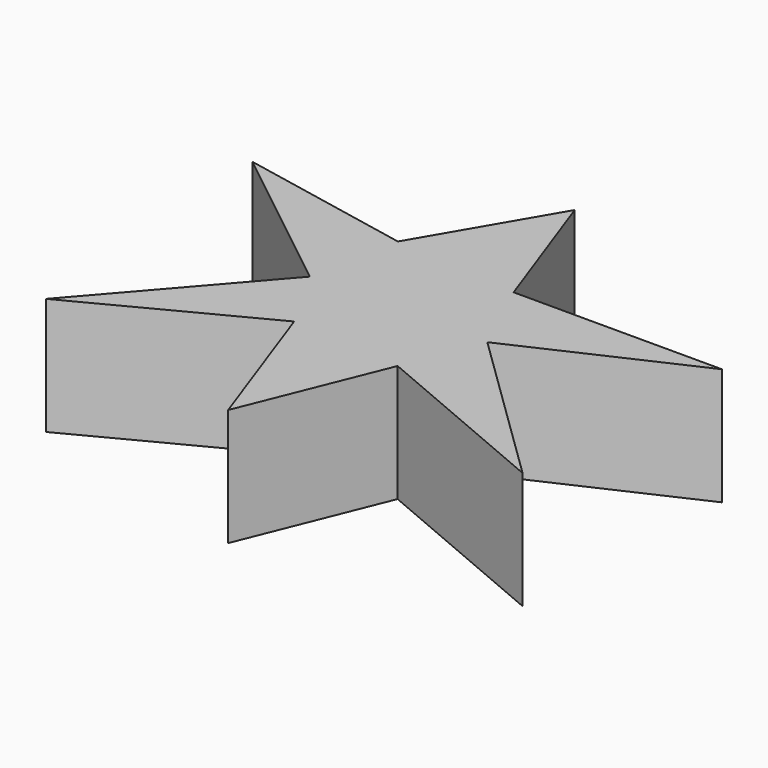
from build123d import *

# Parameters (mm, degrees)
PAD_DEPTH = 20


with BuildPart() as part:
    # Sketch → Pad (new body)
    with BuildSketch(Plane.XY):
        Polygon((0, 37.070709), (8.484852, 13.434344), (44.040401, 13.434344), (14.747471, 0), (42.020203, -26.565657), (9.696966, -12.828281), (0, -36.868687), (-9.090909, -11.414141), (-38.989895, -26.969696), (-15.555554, 0), (-42.222218, 21.111113), (-12.727272, 15.252524), align=None)
    extrude(amount=PAD_DEPTH)


solid = part.part
